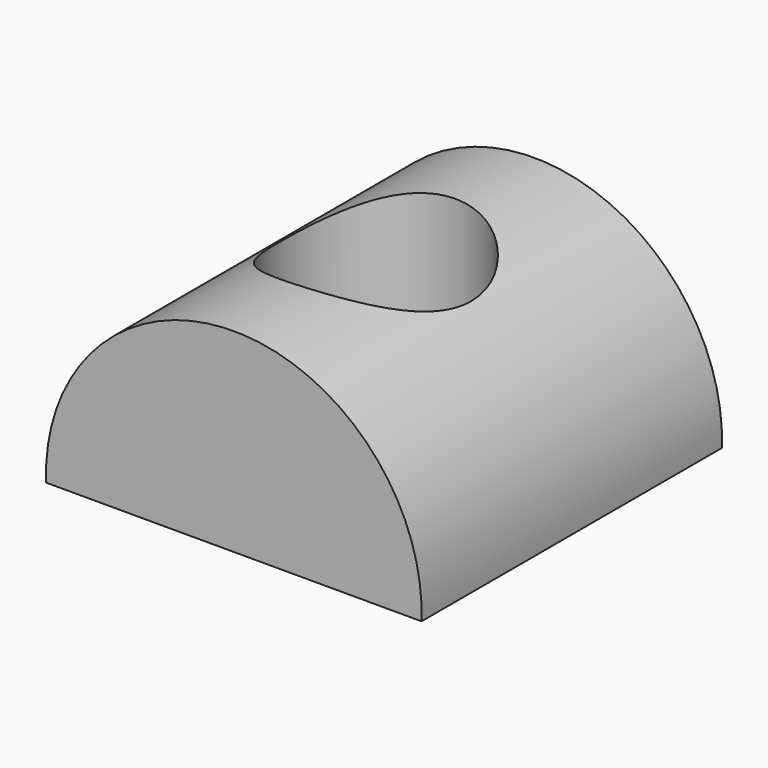
from build123d import *

# Parameters (mm, degrees)
F1_DEPTH = 43.18
F2_R     = 10.963515
F3_DEPTH = 22.370112


with BuildPart() as f1:
    # F0 (on Front) → F1 (new body)
    with BuildSketch(Plane.XZ):
        with BuildLine():
            ThreePointArc((-17.296504, 0), (-38.886504, 22.369112), (-60.476504, 0))
            Line((-60.476504, 0), (-17.296504, 0))
        make_face()
    extrude(amount=F1_DEPTH)

    # F2 (on Top) → F3 (cut, through all)
    with BuildSketch(Plane.XY):
        with Locations((-39.803971, -21.610742)):
            Circle(F2_R)
    extrude(amount=F3_DEPTH, mode=Mode.SUBTRACT)


solid = f1.part
